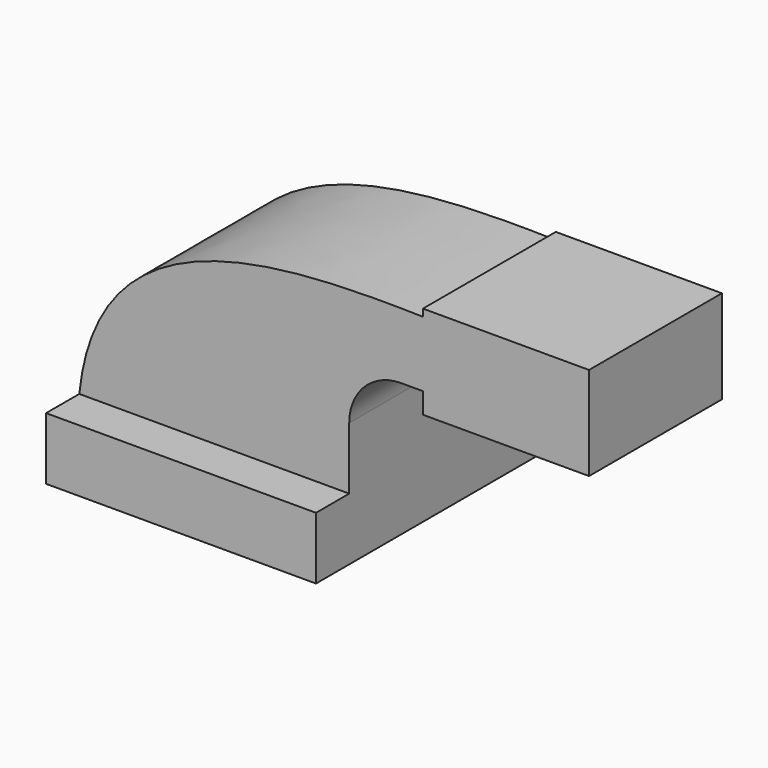
from build123d import *

# Parameters (mm, degrees)
F1_DEPTH = 63.5
F2_DEPTH = 50.8


with BuildPart() as f1:
    # F0 (on Front) → F1 (new body, symmetric)
    with BuildSketch(Plane.XZ):
        Polygon((-41.275, 9.525), (-41.275, -9.525), (41.275, -9.525), (41.275, 9.525), (22.4790014327, 9.525), align=None)
    extrude(amount=F1_DEPTH, both=True)

    # F0 (on Front) → F2 (join)
    with BuildSketch(Plane.XZ):
        Polygon((-41.275, 9.525), (-41.275, -9.525), (41.275, -9.525), (41.275, 9.525), (22.4790014327, 9.525), align=None)
        with BuildLine():
            add(Edge.make_bspline(
                [(-41.275, 9.525), (-35.7326114907, 63.6337083014), (19.6466617219, 65.4086383739), (63.8208144069, 64.4769455383)],
                knots=[0, 0, 0, 0, 117.4701032347, 117.4701032347, 117.4701032347, 117.4701032347], degree=3))
            Line((-41.275, 9.525), (22.4790014327, 9.525))
            Line((22.4790014327, 9.525), (22.4790014327, 47.0458286018))
            ThreePointArc((22.4790014327, 47.0458286018), (28.8618939863, 60.471876969), (43.3038324118, 63.9975693303))
            Line((43.3038324118, 63.9975693303), (63.8208144069, 63.9975693303))
            Line((63.8208144069, 63.9975693303), (63.8208144069, 64.4769455383))
        make_face()
        with BuildLine():
            Line((22.4790014327, 9.525), (41.275, 9.525))
            Line((41.275, 9.525), (41.275, 28.575))
            ThreePointArc((41.275, 28.575), (45.9246798487, 39.8003201513), (57.15, 44.45))
            Line((57.15, 44.45), (63.8208144069, 44.45))
            Line((63.8208144069, 44.45), (63.8208144069, 63.9975693303))
            Line((63.8208144069, 63.9975693303), (43.3038324118, 63.9975693303))
            ThreePointArc((43.3038324118, 63.9975693303), (28.8618939863, 60.471876969), (22.4790014327, 47.0458286018))
            Line((22.4790014327, 47.0458286018), (22.4790014327, 9.525))
        make_face()
        with BuildLine():
            add(Edge.make_bspline(
                [(63.8208144069, 64.4769455383), (71.9097851364, 64.3063381669), (79.6230338842, 64.0449742774), (86.5857569244, 63.9975693303)],
                knots=[117.4701032347, 117.4701032347, 117.4701032347, 117.4701032347, 138.9806963961, 138.9806963961, 138.9806963961, 138.9806963961], degree=3))
            Line((63.8208144069, 64.4769455383), (63.8208144069, 63.9975693303))
            Line((63.8208144069, 63.9975693303), (86.5857569244, 63.9975693303))
        make_face()
        with BuildLine():
            Line((63.8208144069, 66.675), (63.8208144069, 64.4769455383))
            add(Edge.make_bspline(
                [(63.8208144069, 64.4769455383), (71.9097851364, 64.3063381669), (79.6230338842, 64.0449742774), (86.5857569244, 63.9975693303)],
                knots=[117.4701032347, 117.4701032347, 117.4701032347, 117.4701032347, 138.9806963961, 138.9806963961, 138.9806963961, 138.9806963961], degree=3))
            Line((86.5857569244, 63.9975693303), (85.725, 44.45))
            Line((85.725, 44.45), (63.8208144069, 44.45))
            Line((63.8208144069, 44.45), (63.8208144069, 38.1))
            Line((63.8208144069, 38.1), (114.6208144069, 38.1))
            Line((114.6208144069, 38.1), (114.6208144069, 66.675))
            Line((114.6208144069, 66.675), (63.8208144069, 66.675))
        make_face()
        Polygon((86.5857569244, 63.9975693303), (63.8208144069, 63.9975693303), (63.8208144069, 44.45), (85.725, 44.45), align=None)
    extrude(amount=F2_DEPTH)


solid = f1.part
